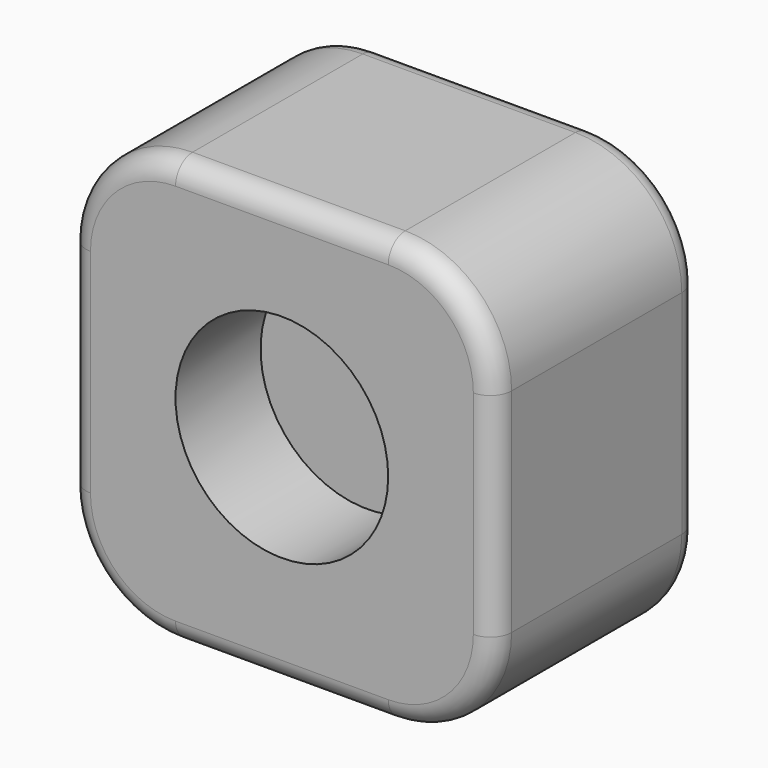
from build123d import *

# Parameters (mm, degrees)
F1_DEPTH = 60
F2_R     = 5
F3_R     = 25
F4_DEPTH = 25


with BuildPart() as f1:
    # F0 (on Front) → F1 (new body)
    with BuildSketch(Plane.XZ):
        with BuildLine():
            Line((9.088148, 68.306795), (-40.911852, 68.306795))
            ThreePointArc((-40.911852, 68.306795), (-58.589521, 60.984465), (-65.911852, 43.306795))
            Line((-65.911852, 43.306795), (-65.911852, -6.693205))
            ThreePointArc((-65.911852, -6.693205), (-58.589521, -24.370874), (-40.911852, -31.693205))
            Line((-40.911852, -31.693205), (9.088148, -31.693205))
            ThreePointArc((9.088148, -31.693205), (26.765818, -24.370874), (34.088148, -6.693205))
            Line((34.088148, -6.693205), (34.088148, 43.306795))
            ThreePointArc((34.088148, 43.306795), (26.765818, 60.984465), (9.088148, 68.306795))
        make_face()
    extrude(amount=F1_DEPTH)

    # F2
    f2_edges = [f1.edges().sort_by_distance(p)[0] for p in [
        (-15.911852, -60, 68.306795),
        (-58.589521, -60, 60.984465),
        (-65.911852, -60, 18.306795),
        (-58.589521, -60, -24.370874),
        (-15.911852, -60, -31.693205),
        (26.765818, -60, -24.370874),
        (34.088148, -60, 18.306795),
        (26.765818, -60, 60.984465),
        (-15.911852, 0, 68.306795),
        (-58.589521, 0, 60.984465),
        (-65.911852, 0, 18.306795),
        (-58.589521, 0, -24.370874),
        (-15.911852, 0, -31.693205),
        (26.765818, 0, -24.370874),
        (34.088148, 0, 18.306795),
        (26.765818, 0, 60.984465),
    ]]
    fillet(f2_edges, radius=F2_R)

    # F3 (on face) → F4 (cut)
    with BuildSketch(Plane.XZ.offset(60)):
        with Locations((-15.923823, 19.471144)):
            Circle(F3_R)
    extrude(amount=-F4_DEPTH, mode=Mode.SUBTRACT)


solid = f1.part
